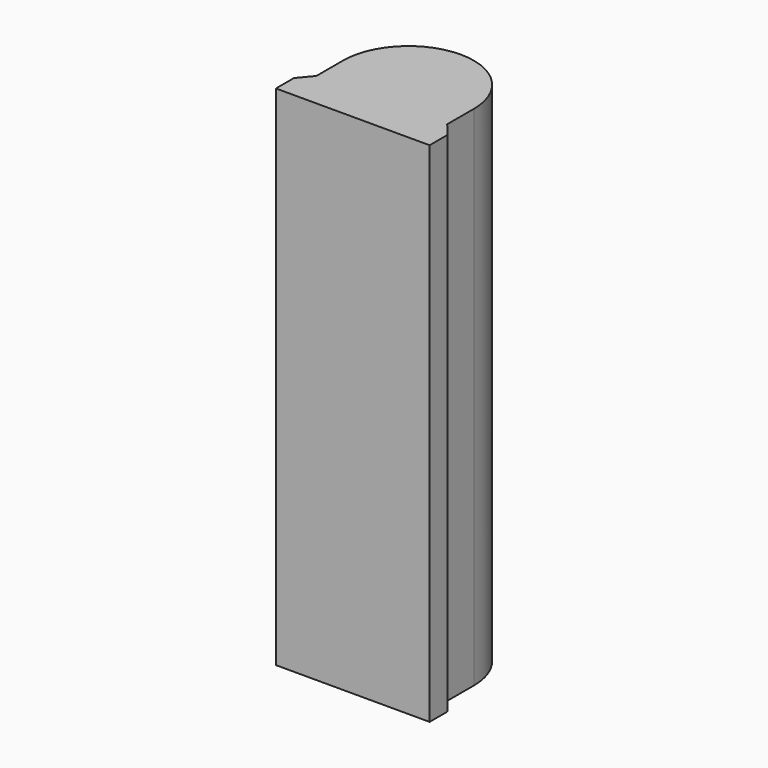
from build123d import *

# Parameters (mm, degrees)
PAD_DEPTH    = 10250
PAD001_DEPTH = 450
PAD002_DEPTH = 650


with BuildPart() as part:
    # Sketch001 → Pad (new body)
    with BuildSketch(Plane.XY):
        with BuildLine():
            ThreePointArc((1462, 0), (0, 1462), (-1462, 0))
            Line((-1462, 0), (-1462, -745))
            Line((-1462, -745), (-1718, -1051))
            Line((-1718, -1051), (-1718, -1556))
            Line((-1718, -1556), (1718, -1556))
            Line((1718, -1556), (1718, -1051))
            Line((1718, -1051), (1462, -745))
            Line((1462, -745), (1462, 0))
        make_face()
        with BuildLine():
            ThreePointArc((1012, 0), (0, 1012), (-1012, 0))
            Line((-1012, 0), (-1012, -1190))
            Line((-1012, -1190), (1012, -1190))
            Line((1012, -1190), (1012, 0))
        make_face(mode=Mode.SUBTRACT)
    extrude(amount=-PAD_DEPTH)

    # Sketch002 (on Face13 of Pad) → Pad001 (join)
    with BuildSketch(Plane.XY):
        with BuildLine():
            Line((-1462, 0), (-1462, -745))
            Line((-1462, -745), (-1718, -1051))
            Line((-1718, -1051), (-1718, -1556))
            Line((-1718, -1556), (1718, -1556))
            Line((1718, -1556), (1718, -1051))
            Line((1718, -1051), (1462, -745))
            Line((1462, -745), (1462, 0))
            ThreePointArc((1462, 0), (0, 1462), (-1462, 0))
        make_face()
    extrude(amount=PAD001_DEPTH)

    # Sketch003 (on Face1 of Pad001) → Pad002 (join)
    with BuildSketch(Plane(origin=(0, 0, -10250), x_dir=(1, 0, 0), z_dir=(0, 0, -1))):
        with BuildLine():
            Line((-1462, 0), (-1462, 745))
            Line((-1462, 745), (-1718, 1051))
            Line((-1718, 1051), (-1718, 1556))
            Line((-1718, 1556), (1718, 1556))
            Line((1718, 1556), (1718, 1051))
            Line((1718, 1051), (1462, 745))
            Line((1462, 745), (1462, 0))
            ThreePointArc((-1462, 0), (0, -1462), (1462, 0))
        make_face()
    extrude(amount=PAD002_DEPTH)


solid = part.part
